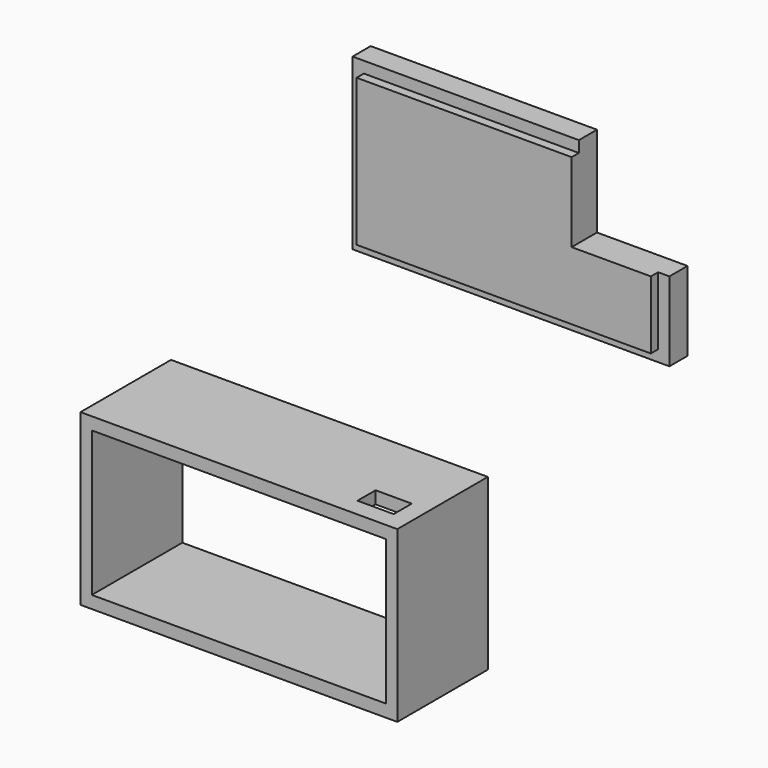
from build123d import *

# Parameters (mm, degrees)
F0_W      = 70
F0_H      = 37.5
F0_W_2    = 65
F0_H_2    = 32
F1_DEPTH  = 25
F2_W      = 70
F2_H      = 37.5
F3_DEPTH  = 5
F4_W      = 65
F4_H      = 32.5
F5_DEPTH  = 2
F6_W      = 20
F6_H      = 20
F7_DEPTH  = 25
F9_W      = 8
F9_H      = 5
F10_DEPTH = 25


with BuildPart() as f1:
    # F0 (on Front) → F1 (new body)
    with BuildSketch(Plane.XZ):
        Rectangle(F0_W, F0_H)
        Rectangle(F0_W_2, F0_H_2, mode=Mode.SUBTRACT)
    extrude(amount=F1_DEPTH)

    # F9 (on face) → F10 (cut)
    with BuildSketch(Plane.XY.offset(18.75)):
        with Locations((27, -18.5)):
            Rectangle(F9_W, F9_H)
    extrude(amount=-F10_DEPTH, mode=Mode.SUBTRACT)


with BuildPart() as f3:
    # F2 (on Front) → F3 (new body)
    with BuildSketch(Plane.XZ):
        with Locations((11.367538, 48.087434)):
            Rectangle(F2_W, F2_H)
    extrude(amount=F3_DEPTH)

    # F4 (on face) → F5 (join)
    with BuildSketch(Plane.XZ.offset(5)):
        with Locations((11.367538, 48.087434)):
            Rectangle(F4_W, F4_H)
    extrude(amount=F5_DEPTH)

    # F6 (on face) → F7 (cut)
    with BuildSketch(Plane(origin=(0, 0, 0), x_dir=(-1, 0, 0), z_dir=(0, 1, 0))):
        with Locations((-36.367538, 56.837434)):
            Rectangle(F6_W, F6_H)
    extrude(amount=-F7_DEPTH, mode=Mode.SUBTRACT)


with BuildPart() as f3_1:
    # F8: moved
    add(f3.part.moved(Location((0, 40.939189, 0))))


solid = Compound([f1.part, f3_1.part])
